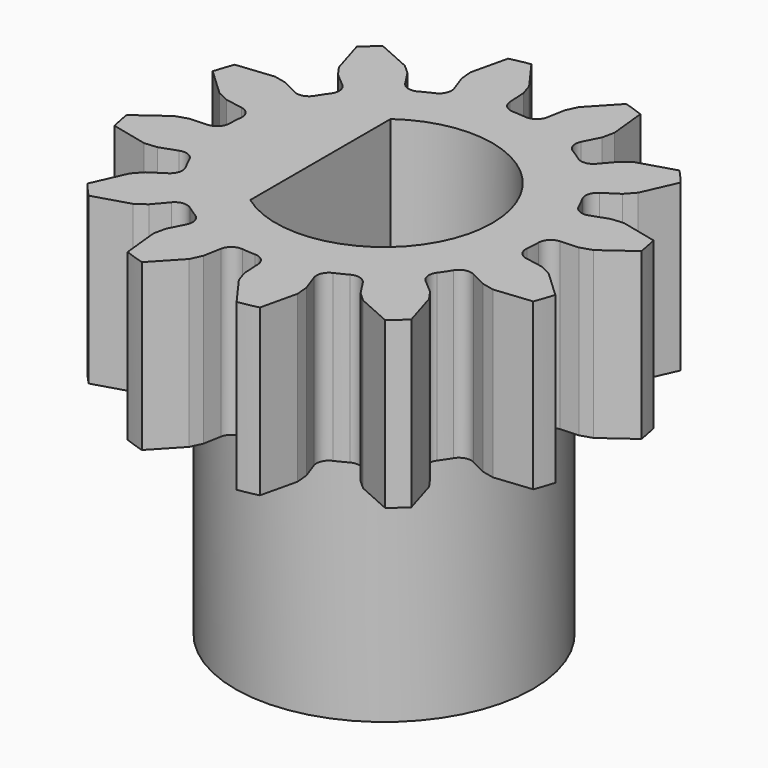
from build123d import *

# Parameters (mm, degrees)
PAD018_DEPTH           = 12
CYLINDER023_R          = 4.5
CYLINDER023_DEPTH      = 12
PAD019_DEPTH           = 5
CUT017_PLACEMENT_ANGLE = 180


with BuildPart() as body016:
    # Sketch153 → Pad018 (new body)
    with BuildSketch(Plane.XY):
        with BuildLine():
            ThreePointArc((-1.924981, -2.651228), (3.274094, -0.001028), (-1.924981, 2.649172))
            Line((-1.924981, 2.649172), (-1.924981, -2.651228))
        make_face()
    extrude(amount=PAD018_DEPTH)


with BuildPart() as cylinder023:
    # Cylinder023 → Cylinder023 (new body)
    with BuildSketch(Plane.XY):
        Circle(CYLINDER023_R)
    extrude(amount=CYLINDER023_DEPTH)


with BuildPart() as pinion001:
    # Sketch154 → Pad019 (new body)
    with BuildSketch(Plane.XY):
        with BuildLine():
            Line((5.562447, 1.006802), (5.903793, 1.165811))
            Line((5.903793, 1.165811), (6.726635, 1.937659))
            ThreePointArc((6.726635, 1.937659), (6.634334, 2.233423), (6.529036, 2.524814))
            Line((6.529036, 2.524814), (5.406959, 2.642124))
            Line((5.406959, 2.642124), (5.03893, 2.562402))
            Line((5.03893, 2.562402), (4.554688, 2.317075))
            ThreePointArc((4.06426, 2.456563), (4.282119, 2.290644), (4.554688, 2.317075))
            ThreePointArc((4.06426, 2.456563), (3.955033, 2.628881), (3.838507, 2.796349))
            ThreePointArc((3.899966, 3.30251), (3.769976, 3.061482), (3.838507, 2.796349))
            Line((3.899966, 3.30251), (4.313775, 3.653848))
            Line((4.313775, 3.653848), (4.529885, 3.962227))
            Line((4.529885, 3.962227), (4.856563, 5.042087))
            ThreePointArc((4.856563, 5.042087), (4.628746, 5.252076), (4.39186, 5.451779))
            Line((4.39186, 5.451779), (3.361458, 4.992334))
            Line((3.361458, 4.992334), (3.082596, 4.739278))
            Line((3.082596, 4.739278), (2.785893, 4.284698))
            ThreePointArc((2.291426, 4.160284), (2.563058, 4.125524), (2.785893, 4.284698))
            ThreePointArc((2.291426, 4.160284), (2.110674, 4.254902), (1.926025, 4.34167))
            ThreePointArc((1.72617, 4.810749), (1.734109, 4.537017), (1.926025, 4.34167))
            Line((1.72617, 4.810749), (1.90887, 5.321921))
            Line((1.90887, 5.321921), (1.941838, 5.697039))
            Line((1.941838, 5.697039), (1.684819, 6.795565))
            ThreePointArc((1.684819, 6.795565), (1.382529, 6.863512), (1.077528, 6.918017))
            Line((1.077528, 6.918017), (0.414896, 6.004925))
            Line((0.414896, 6.004925), (0.299923, 5.646341))
            Line((0.299923, 5.646341), (0.270261, 5.104312))
            ThreePointArc((-0.095753, 4.749333), (0.156867, 4.855045), (0.270261, 5.104312))
            ThreePointArc((-0.095753, 4.749333), (-0.299598, 4.740898), (-0.502893, 4.723717))
            ThreePointArc((-0.910512, 5.030024), (-0.76677, 4.796935), (-0.502893, 4.723717))
            Line((-0.910512, 5.030024), (-1.007875, 5.564062))
            Line((-1.007875, 5.564062), (-1.166883, 5.905408))
            Line((-1.166883, 5.905408), (-1.938731, 6.72825))
            ThreePointArc((-1.938731, 6.72825), (-2.234496, 6.635949), (-2.525886, 6.53065))
            Line((-2.525886, 6.53065), (-2.643196, 5.408573))
            Line((-2.643196, 5.408573), (-2.563474, 5.040545))
            Line((-2.563474, 5.040545), (-2.318147, 4.556302))
            ThreePointArc((-2.457636, 4.065874), (-2.291717, 4.283734), (-2.318147, 4.556302))
            ThreePointArc((-2.457636, 4.065874), (-2.629953, 3.956647), (-2.797421, 3.840121))
            ThreePointArc((-3.303583, 3.90158), (-3.062555, 3.77159), (-2.797421, 3.840121))
            Line((-3.303583, 3.90158), (-3.65492, 4.315389))
            Line((-3.65492, 4.315389), (-3.963299, 4.531499))
            Line((-3.963299, 4.531499), (-5.04316, 4.858177))
            ThreePointArc((-5.04316, 4.858177), (-5.253149, 4.63036), (-5.452851, 4.393474))
            Line((-5.452851, 4.393474), (-4.993407, 3.363072))
            Line((-4.993407, 3.363072), (-4.740351, 3.084211))
            Line((-4.740351, 3.084211), (-4.28577, 2.787507))
            ThreePointArc((-4.161356, 2.29304), (-4.126596, 2.564672), (-4.28577, 2.787507))
            ThreePointArc((-4.161356, 2.29304), (-4.255974, 2.112288), (-4.342743, 1.927639))
            ThreePointArc((-4.811821, 1.727784), (-4.53809, 1.735724), (-4.342743, 1.927639))
            Line((-4.811821, 1.727784), (-5.322993, 1.910485))
            Line((-5.322993, 1.910485), (-5.698112, 1.943452))
            Line((-5.698112, 1.943452), (-6.796638, 1.686433))
            ThreePointArc((-6.796638, 1.686433), (-6.864585, 1.384143), (-6.919089, 1.079142))
            Line((-6.919089, 1.079142), (-6.005997, 0.41651))
            Line((-6.005997, 0.41651), (-5.647414, 0.301537))
            Line((-5.647414, 0.301537), (-5.105384, 0.271875))
            ThreePointArc((-4.750405, -0.094139), (-4.856118, 0.158481), (-5.105384, 0.271875))
            ThreePointArc((-4.750405, -0.094139), (-4.74197, -0.297984), (-4.72479, -0.501279))
            ThreePointArc((-5.031096, -0.908898), (-4.798007, -0.765156), (-4.72479, -0.501279))
            Line((-5.031096, -0.908898), (-5.565134, -1.00626))
            Line((-5.565134, -1.00626), (-5.90648, -1.165269))
            Line((-5.90648, -1.165269), (-6.729322, -1.937117))
            ThreePointArc((-6.729322, -1.937117), (-6.637021, -2.232881), (-6.531723, -2.524272))
            Line((-6.531723, -2.524272), (-5.409646, -2.641582))
            Line((-5.409646, -2.641582), (-5.041617, -2.56186))
            Line((-5.041617, -2.56186), (-4.557374, -2.316533))
            ThreePointArc((-4.066946, -2.456021), (-4.284806, -2.290102), (-4.557374, -2.316533))
            ThreePointArc((-4.066946, -2.456021), (-3.957719, -2.628339), (-3.841193, -2.795807))
            ThreePointArc((-3.902653, -3.301969), (-3.772663, -3.06094), (-3.841193, -2.795807))
            Line((-3.902653, -3.301969), (-4.316462, -3.653306))
            Line((-4.316462, -3.653306), (-4.532572, -3.961685))
            Line((-4.532572, -3.961685), (-4.85925, -5.041545))
            ThreePointArc((-4.85925, -5.041545), (-4.631433, -5.251535), (-4.394546, -5.451237))
            Line((-4.394546, -5.451237), (-3.364144, -4.991792))
            Line((-3.364144, -4.991792), (-3.085283, -4.738736))
            Line((-3.085283, -4.738736), (-2.78858, -4.284156))
            ThreePointArc((-2.294113, -4.159742), (-2.565744, -4.124982), (-2.78858, -4.284156))
            ThreePointArc((-2.294113, -4.159742), (-2.11336, -4.25436), (-1.928712, -4.341129))
            ThreePointArc((-1.728857, -4.810207), (-1.736796, -4.536475), (-1.928712, -4.341129))
            Line((-1.728857, -4.810207), (-1.911557, -5.321379))
            Line((-1.911557, -5.321379), (-1.944525, -5.696498))
            Line((-1.944525, -5.696498), (-1.687506, -6.795023))
            ThreePointArc((-1.687506, -6.795023), (-1.385216, -6.862971), (-1.080215, -6.917475))
            Line((-1.080215, -6.917475), (-0.417583, -6.004383))
            Line((-0.417583, -6.004383), (-0.30261, -5.6458))
            Line((-0.30261, -5.6458), (-0.272948, -5.10377))
            ThreePointArc((0.093067, -4.748791), (-0.159553, -4.854503), (-0.272948, -5.10377))
            ThreePointArc((0.093067, -4.748791), (0.296912, -4.740356), (0.500206, -4.723176))
            ThreePointArc((0.907825, -5.029482), (0.764084, -4.796393), (0.500206, -4.723176))
            Line((0.907825, -5.029482), (1.005188, -5.56352))
            Line((1.005188, -5.56352), (1.164197, -5.904866))
            Line((1.164197, -5.904866), (1.936044, -6.727708))
            ThreePointArc((1.936044, -6.727708), (2.231809, -6.635407), (2.523199, -6.530108))
            Line((2.523199, -6.530108), (2.64051, -5.408032))
            Line((2.64051, -5.408032), (2.560787, -5.040003))
            Line((2.560787, -5.040003), (2.315461, -4.55576))
            ThreePointArc((2.454949, -4.065332), (2.28903, -4.283192), (2.315461, -4.55576))
            ThreePointArc((2.454949, -4.065332), (2.627267, -3.956105), (2.794735, -3.839579))
            ThreePointArc((3.300896, -3.901038), (3.059868, -3.771048), (2.794735, -3.839579))
            Line((3.300896, -3.901038), (3.652234, -4.314848))
            Line((3.652234, -4.314848), (3.960612, -4.530958))
            Line((3.960612, -4.530958), (5.040473, -4.857636))
            ThreePointArc((5.040473, -4.857636), (5.250462, -4.629818), (5.450164, -4.392932))
            Line((5.450164, -4.392932), (4.99072, -3.36253))
            Line((4.99072, -3.36253), (4.737664, -3.083669))
            Line((4.737664, -3.083669), (4.283083, -2.786966))
            ThreePointArc((4.15867, -2.292498), (4.123909, -2.56413), (4.283083, -2.786966))
            ThreePointArc((4.15867, -2.292498), (4.253288, -2.111746), (4.340056, -1.927098))
            ThreePointArc((4.809135, -1.727242), (4.535403, -1.735182), (4.340056, -1.927098))
            Line((4.809135, -1.727242), (5.320306, -1.909943))
            Line((5.320306, -1.909943), (5.695425, -1.94291))
            Line((5.695425, -1.94291), (6.793951, -1.685891))
            ThreePointArc((6.793951, -1.685891), (6.861898, -1.383601), (6.916402, -1.078601))
            Line((6.916402, -1.078601), (6.003311, -0.415969))
            Line((6.003311, -0.415969), (5.644727, -0.300996))
            Line((5.644727, -0.300996), (5.102697, -0.271334))
            ThreePointArc((4.747718, 0.094681), (4.853431, -0.157939), (5.102697, -0.271334))
            ThreePointArc((4.747718, 0.094681), (4.739284, 0.298526), (4.722103, 0.501821))
            ThreePointArc((5.028409, 0.909439), (4.795321, 0.765698), (4.722103, 0.501821))
            Line((5.028409, 0.909439), (5.562447, 1.006802))
        make_face()
    extrude(amount=PAD019_DEPTH)

    # Fusion024: union Cylinder023
    add(cylinder023.part)

    # Cut017: cut Body016
    add(body016.part, mode=Mode.SUBTRACT)


with BuildPart() as pinion001_1:
    # Cut017 placement: moved
    add(pinion001.part.moved(Location((43.9, 2.76, 35))).rotate(Axis((43.9, 2.76, 35), (1, 0, 0)), CUT017_PLACEMENT_ANGLE))


solid = pinion001_1.part
